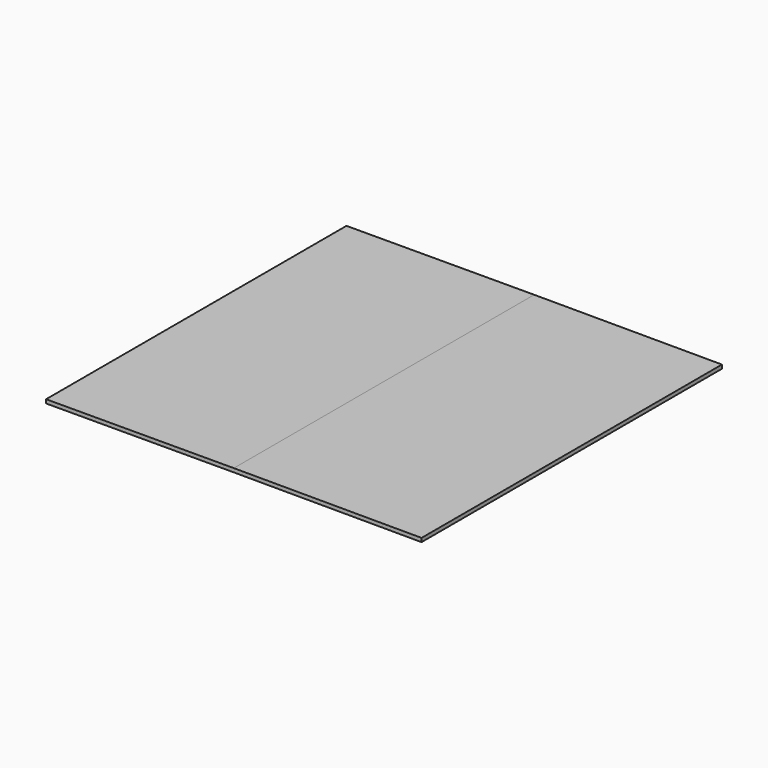
from build123d import *

# Parameters (mm, degrees)
EXTRUDE_DEPTH = 1000


with BuildPart() as part:
    # Sketch → Extrude (new body)
    with BuildSketch(Plane.XZ):
        Polygon((0, 0), (0, 10), (500, 11), (1000, 10), (1000, 0), (500, 1), align=None)
    extrude(amount=-EXTRUDE_DEPTH)


solid = part.part
